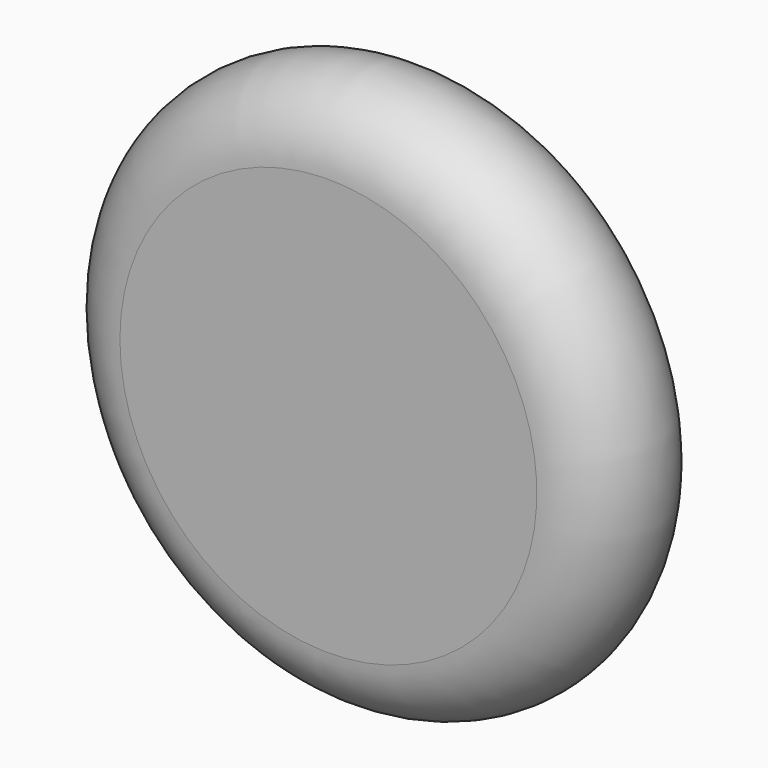
from build123d import *


with BuildPart() as f1:
    # F0 (on Top) → F1 (revolve)
    with BuildSketch(Plane.XY):
        with BuildLine():
            ThreePointArc((0, 6.697004), (-6.2017, 6.274262), (-11.845563, 8.879372))
            ThreePointArc((-11.845563, 8.879372), (-19.711521, 6.673789), (-15, 0))
            Line((-15, 0), (0, 0))
            Line((0, 0), (0, 6.697004))
        make_face()
    revolve(axis=Axis((0, 3.348502, 0), (0, 1, 0)))


solid = f1.part
